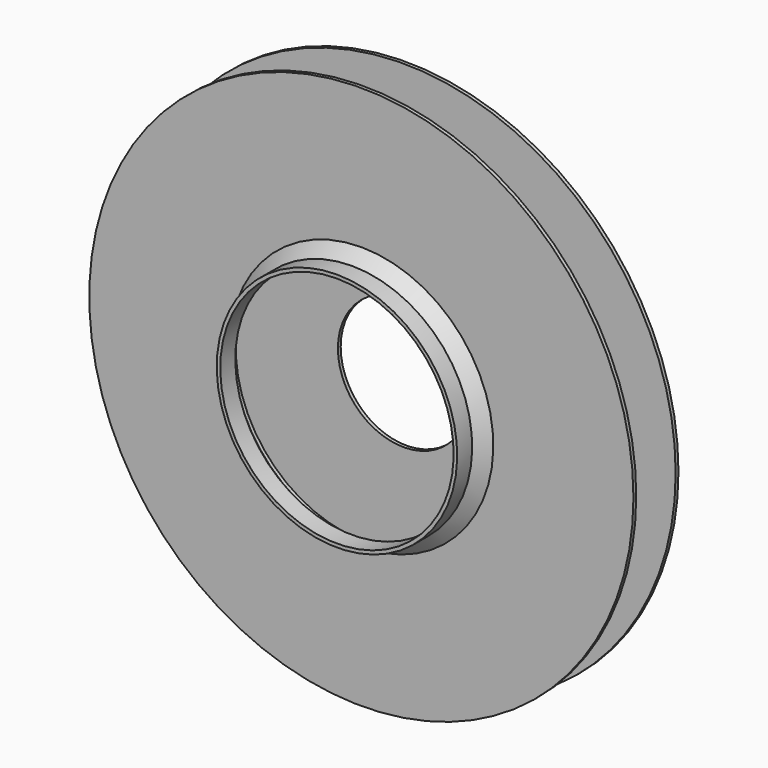
from build123d import *

# Parameters (mm, degrees)
F0_R      = 736.6
F1_DEPTH  = 9.525
F3_R      = 736.6
F4_DEPTH  = 9.525
F8_W      = 50.8
F8_H      = 9.525
F7_R      = 347.6625
F10_DEPTH = 25.4
F11_R     = 177.8
F12_DEPTH = 25.4


with BuildPart() as f1:
    # F0 (on Front) → F1 (new body)
    with BuildSketch(Plane.XZ):
        Circle(F0_R)
    extrude(amount=F1_DEPTH)

    # F11 (on face) → F12 (cut)
    with BuildSketch(Plane(origin=(0, 0, 0), x_dir=(-1, 0, 0), z_dir=(0, 1, 0))):
        Circle(F11_R)
    extrude(amount=-F12_DEPTH, mode=Mode.SUBTRACT)


with BuildPart() as f4:
    # F3 (on offset) → F4 (new body)
    with BuildSketch(Plane.XZ.offset(142.875)):
        Circle(F3_R)
    extrude(amount=F4_DEPTH)

    # F8 (on Right) → F9 (revolve)
    with BuildSketch(Plane.YZ):
        Polygon((-184.15, 325.4375), (-184.15, 315.9125), (-152.4, 347.6625), (-152.4, 357.1875), align=None)
        with Locations((-209.55, 320.675)):
            Rectangle(F8_W, F8_H)
    revolve(axis=Axis((0, -152.4, 0), (0, -1, 0)))

    # F7 (on face) → F10 (cut)
    with BuildSketch(Plane.XZ.offset(152.4)):
        Circle(F7_R)
    extrude(amount=-F10_DEPTH, mode=Mode.SUBTRACT)


solid = Compound([f1.part, f4.part])
